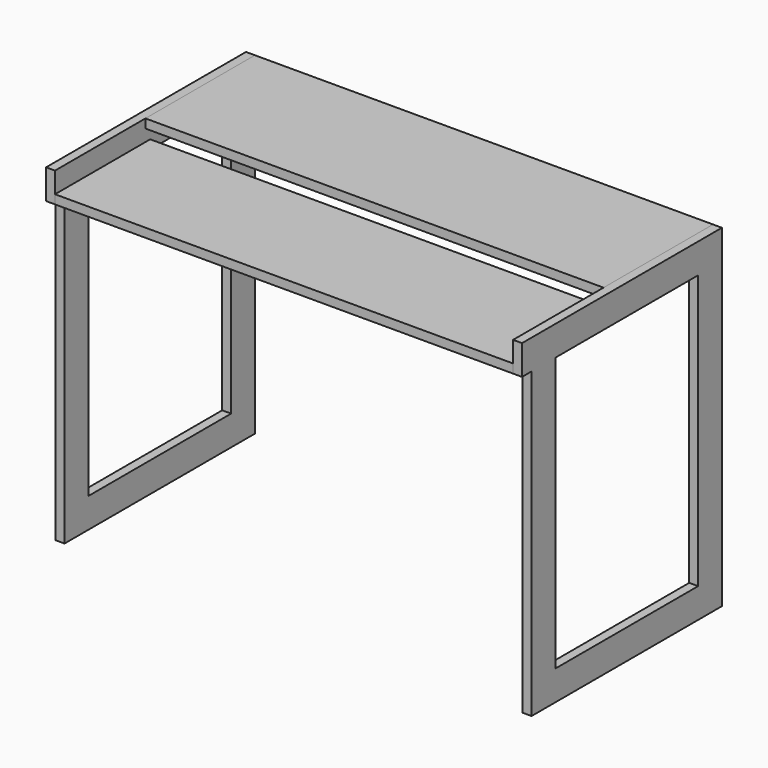
from build123d import *

# Parameters (mm, degrees)
F0_W          = 254
F0_H          = 19.05
F1_DEPTH      = 488.95
F1_DEPTH_BACK = 488.95
F2_W          = 381
F2_H          = 584.2
F3_DEPTH      = 19.05
F4_W          = 381
F4_H          = 584.2
F5_DEPTH      = 19.05


with BuildPart() as f1:
    # F0 (on Right) → F1 (new body, two sides)
    with BuildSketch(Plane.YZ) as f1_sk:
        Polygon((475.031194, 112.039711), (182.931194, 112.039711), (182.931194, 92.989711), (455.981194, 92.989711), (455.981194, 29.489711), (475.031194, 29.489711), align=None)
        with Locations((68.631194, 58.064711)):
            Rectangle(F0_W, F0_H)
    extrude(amount=F1_DEPTH)
    extrude(f1_sk.sketch, amount=-F1_DEPTH_BACK)


with BuildPart() as f3:
    # F2 (on face) → F3 (new body)
    with BuildSketch(Plane.YZ.offset(488.95)):
        Polygon((475.031194, 112.039711), (-58.368806, 112.039711), (-58.368806, 48.539711), (-32.968806, 48.539711), (-32.968806, -599.160289), (475.031194, -599.160289), align=None)
        with Locations((221.031194, -243.560289)):
            Rectangle(F2_W, F2_H, mode=Mode.SUBTRACT)
    extrude(amount=F3_DEPTH)


with BuildPart() as f5:
    # F4 (on face) → F5 (new body)
    with BuildSketch(Plane(origin=(-488.95, 0, 0), x_dir=(0, -1, 0), z_dir=(-1, 0, 0))):
        Polygon((58.368806, 112.039711), (-475.031194, 112.039711), (-475.031194, -599.160289), (32.968806, -599.160289), (32.968806, 48.539711), (58.368806, 48.539711), align=None)
        with Locations((-221.031194, -243.560289)):
            Rectangle(F4_W, F4_H, mode=Mode.SUBTRACT)
    extrude(amount=F5_DEPTH)


solid = Compound([f1.part, f3.part, f5.part])
